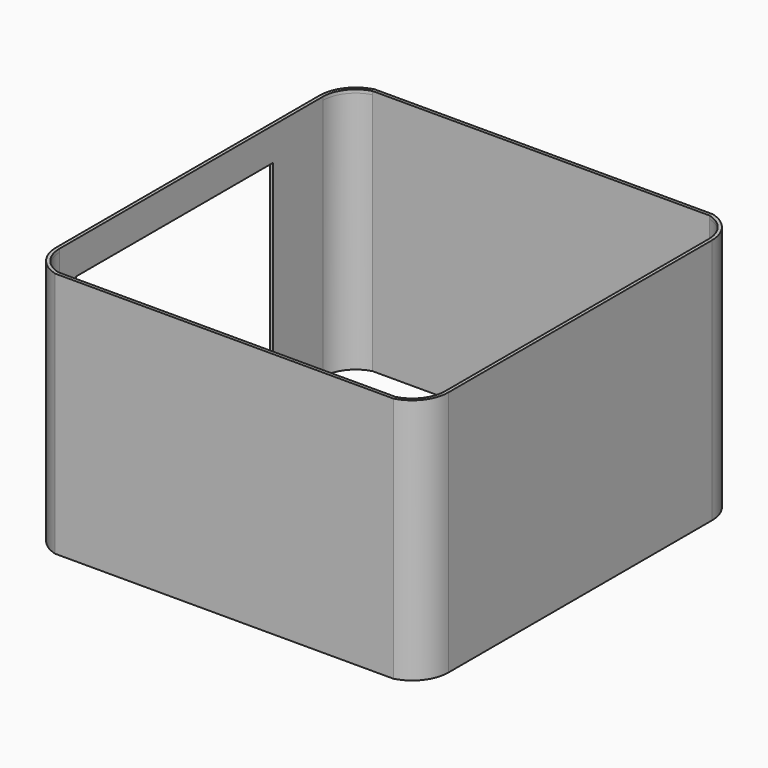
from build123d import *

# Parameters (mm, degrees)
F1_DEPTH = 300
F2_T     = -4
F4_DEPTH = 25
F5_W     = 300
F5_H     = 220
F6_DEPTH = 25


with BuildPart() as f1:
    # F0 (on Top) → F1 (new body)
    with BuildSketch(Plane.XY):
        with BuildLine():
            Line((205.635, 242.809), (-205.635, 242.809))
            ThreePointArc((-205.635, 242.809), (-229.3674, 227.138989), (-238.558, 200.226))
            Line((-238.558, 200.226), (-238.558, -200.226))
            ThreePointArc((-238.558, -200.226), (-229.3674, -227.138989), (-205.635, -242.809))
            Line((-205.635, -242.809), (205.635, -242.809))
            ThreePointArc((205.635, -242.809), (229.367438, -227.139018), (238.558, -200.226))
            Line((238.558, -200.226), (238.558, 200.226))
            ThreePointArc((238.558, 200.226), (229.367438, 227.139018), (205.635, 242.809))
        make_face()
    extrude(amount=F1_DEPTH)

    # F2
    f2_openings = [f1.faces().sort_by_distance(p)[0] for p in [
        (4e-06, 0, 0),
    ]]
    offset(amount=F2_T, openings=f2_openings)

    # F3 (on face) → F4 (cut)
    with BuildSketch(Plane(origin=(0, 0, 296), x_dir=(1, 0, 0), z_dir=(0, 0, -1))):
        with BuildLine():
            ThreePointArc((-205.110852, 238.809), (-226.355128, 224.494202), (-234.558, 200.226))
            Line((-234.558, 200.226), (-234.558, -200.226))
            ThreePointArc((-234.558, -200.226), (-226.355128, -224.494202), (-205.110852, -238.809))
            Line((-205.110852, -238.809), (205.110858, -238.809))
            ThreePointArc((205.110858, -238.809), (226.35513, -224.494207), (234.558, -200.226013))
            Line((234.558, -200.226013), (234.558, 200.226))
            ThreePointArc((234.558, 200.226), (226.35513, 224.4942), (205.110858, 238.809))
            Line((205.110858, 238.809), (-205.110852, 238.809))
        make_face()
    extrude(amount=-F4_DEPTH, mode=Mode.SUBTRACT)

    # F5 (on face) → F6 (cut)
    with BuildSketch(Plane(origin=(-238.558, 0, 0), x_dir=(0, -1, 0), z_dir=(-1, 0, 0))):
        with Locations((25.226, 150)):
            Rectangle(F5_W, F5_H)
    extrude(amount=-F6_DEPTH, mode=Mode.SUBTRACT)


solid = f1.part
